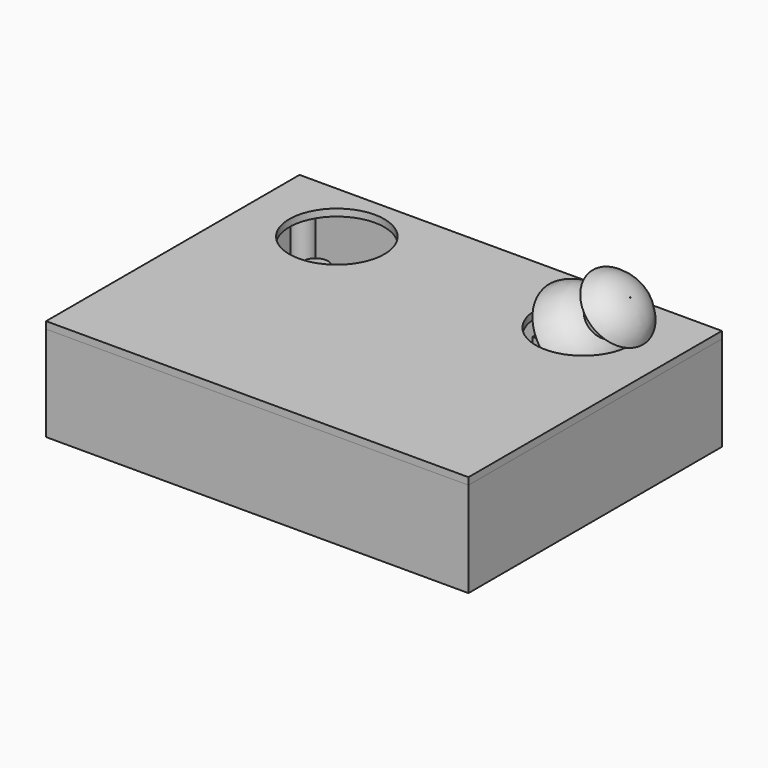
from build123d import *

# Parameters (mm, degrees)
SKETCH_W        = 120
SKETCH_H        = 90
PAD_DEPTH       = 27
POCKET_DEPTH    = 24
SKETCH010_R     = 3.5
PAD006_DEPTH    = 10
SKETCH006_W     = 34
SKETCH006_H     = 26
PAD004_DEPTH    = 1.35
SKETCH007_R     = 1.5
POCKET002_DEPTH = 1.35
SKETCH008_W     = 16
SKETCH008_H     = 16
PAD005_DEPTH    = 12
SKETCH012_W     = 120
SKETCH012_H     = 90
PAD008_DEPTH    = 2
SKETCH013_R     = 13.5
POCKET003_DEPTH = 2
SKETCH014_W     = 24
SKETCH014_H     = 32
PAD009_DEPTH    = 21
SKETCH015_R     = 1.1
POCKET004_DEPTH = 21
SKETCH016_W     = 54
SKETCH016_H     = 51
PAD010_DEPTH    = 13
SKETCH018_W     = 18
SKETCH018_H     = 45
PAD012_DEPTH    = 14


with BuildPart() as case_bottom:
    # Sketch (on DatumPlane) → Pad (new body)
    with BuildSketch(Plane.XY):
        Rectangle(SKETCH_W, SKETCH_H)
    extrude(amount=PAD_DEPTH)

    # Sketch001 (on Face6 of Pad) → Pocket (cut)
    with BuildSketch(Plane.XY.offset(27)):
        with BuildLine():
            ThreePointArc((-57, 38.035898), (-54.025126, 39.025126), (-53.035898, 42))
            Line((-53.035898, 42), (53.035898, 42))
            ThreePointArc((53.035898, 42), (54.025126, 39.025126), (57, 38.035898))
            Line((57, 38.035898), (57, -38.035898))
            ThreePointArc((57, -38.035898), (54.025126, -39.025126), (53.035898, -42))
            Line((53.035898, -42), (-53.035898, -42))
            ThreePointArc((-53.035898, -42), (-54.025126, -39.025126), (-57, -38.035898))
            Line((-57, -38.035898), (-57, 38.035898))
        make_face()
    extrude(amount=-POCKET_DEPTH, mode=Mode.SUBTRACT)

    # Sketch010 (on Face15 of Pocket) → Pad006 (join)
    with BuildSketch(Plane.XY.offset(3)):
        with Locations((-49.2, 37.2)):
            Circle(SKETCH010_R)
        with Locations((-23.2, 37.2)):
            Circle(SKETCH010_R)
        with Locations((-23.2, 16.95)):
            Circle(SKETCH010_R)
        with Locations((-49.2, 16.95)):
            Circle(SKETCH010_R)
    extrude(amount=PAD006_DEPTH)


with BuildPart() as obj1:
    # Sketch006 → Pad004 (new body)
    with BuildSketch(Plane.XY):
        Rectangle(SKETCH006_W, SKETCH006_H)
    extrude(amount=PAD004_DEPTH)

    # Sketch007 (on Face6 of Pad004) → Pocket002 (cut)
    with BuildSketch(Plane.XY.offset(1.35)):
        with Locations((-14.2, 10.2)):
            Circle(SKETCH007_R)
        with Locations((11.8, 10.2)):
            Circle(SKETCH007_R)
        with Locations((11.8, -10.05)):
            Circle(SKETCH007_R)
        with Locations((-14.2, -10.05)):
            Circle(SKETCH007_R)
    extrude(amount=-POCKET002_DEPTH, mode=Mode.SUBTRACT)

    # Sketch008 (on Face5 of Pocket002) → Pad005 (join)
    with BuildSketch(Plane.XY.offset(1.35)):
        Rectangle(SKETCH008_W, SKETCH008_H)
    extrude(amount=PAD005_DEPTH)

    # Sketch009 → Revolution (revolve)
    with BuildSketch(Plane(origin=(0, 0, 13.35), x_dir=(0.707107, 0, -0.707107), z_dir=(0, -1, 0))):
        with BuildLine():
            Line((0, 0), (13.491753, 0.071679))
            ThreePointArc((13.491753, 0.071679), (10.329304, 5.147781), (5.087498, 8.027255))
            Line((5.087498, 8.027255), (5.055621, 14.027255))
            Line((5.055621, 14.027255), (9.925621, 14.053128))
            ThreePointArc((9.925621, 14.053128), (5.662011, 17.929471), (0, 19))
            Line((0, 19), (0, 0))
        make_face()
    revolve(axis=Axis((0, 0, 13.35), (0.70334, 0, 0.710853)))


with BuildPart() as obj1_1:
    # Body002 placement: moved
    add(obj1.part.moved(Location((-35, 27, 14))))


with BuildPart() as obj1_2:
    # Clone placement: moved
    add(obj1_1.part.moved(Location((35, -27, -5))))


with BuildPart() as obj1_3:
    # Body003 placement: moved
    add(obj1_2.part.moved(Location((35, 27, 5))))


with BuildPart() as case_top:
    # Sketch012 (on ShapeBinder) → Pad008 (new body)
    with BuildSketch(Plane.XY.offset(27)):
        Rectangle(SKETCH012_W, SKETCH012_H)
    extrude(amount=PAD008_DEPTH)

    # Sketch013 (on Face6 of Pad008) → Pocket003 (cut)
    with BuildSketch(Plane.XY.offset(29)):
        with Locations((-35, 27)):
            Circle(SKETCH013_R)
        with Locations((35, 27)):
            Circle(SKETCH013_R)
    extrude(amount=-POCKET003_DEPTH, mode=Mode.SUBTRACT)


with BuildPart() as power_pcb:
    # Sketch014 → Pad009 (new body)
    with BuildSketch(Plane.XY):
        Rectangle(SKETCH014_W, SKETCH014_H)
    extrude(amount=PAD009_DEPTH)

    # Sketch015 (on Face6 of Pad009) → Pocket004 (cut)
    with BuildSketch(Plane.XY.offset(21)):
        with Locations((-8.19, -4.57)):
            Circle(SKETCH015_R)
        with Locations((8.32, 0.51)):
            Circle(SKETCH015_R)
    extrude(amount=-POCKET004_DEPTH, mode=Mode.SUBTRACT)


with BuildPart() as power_pcb_1:
    # Body005 placement: moved
    add(power_pcb.part.moved(Location((20, -24, 5))))


with BuildPart() as battery_holder:
    # Sketch016 → Pad010 (new body)
    with BuildSketch(Plane.XY):
        Rectangle(SKETCH016_W, SKETCH016_H)
    extrude(amount=PAD010_DEPTH)


with BuildPart() as battery_holder_1:
    # Body006 placement: moved
    add(battery_holder.part.moved(Location((-24, -15, 3))))


with BuildPart() as arduino_nano:
    # Sketch018 → Pad012 (new body)
    with BuildSketch(Plane.XY):
        Rectangle(SKETCH018_W, SKETCH018_H)
    extrude(amount=PAD012_DEPTH)


with BuildPart() as arduino_nano_1:
    # Body007 placement: moved
    add(arduino_nano.part.moved(Location((45, -15, 3))))


solid = Compound([case_bottom.part, obj1_3.part, case_top.part, power_pcb_1.part, battery_holder_1.part, arduino_nano_1.part])
